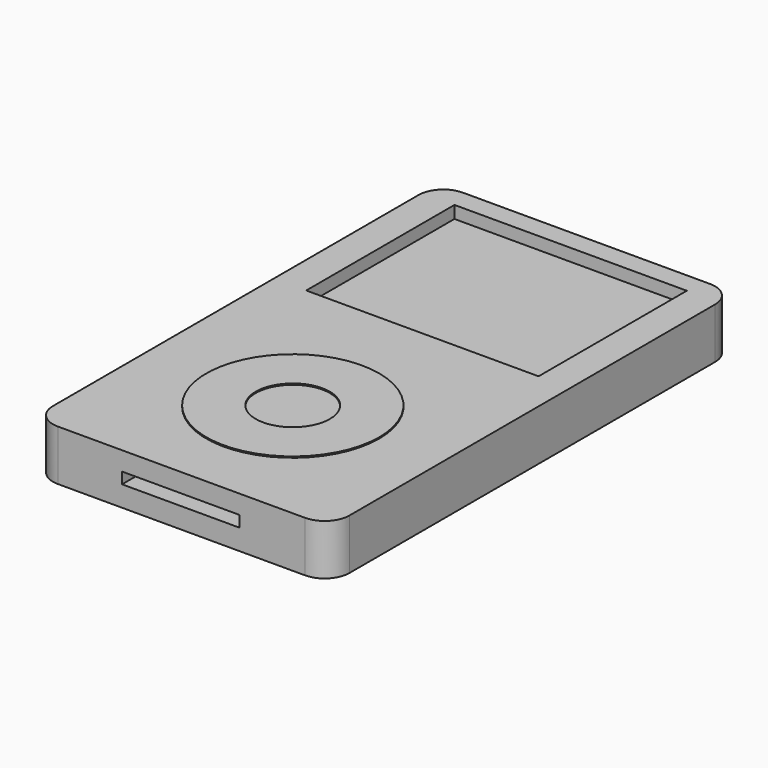
from build123d import *

# Parameters (mm, degrees)
F0_W      = 60.96
F0_H      = 104.14
F1_DEPTH  = 10.414
F2_R      = 5.08
F3_R      = 5.08
F4_R      = 5.08
F5_R      = 5.08
F6_W      = 47.776191
F6_H      = 38.1
F8_DEPTH  = 2.54
F7_R      = 17.78
F7_R_2    = 7.62
F9_DEPTH  = 0.254
F10_R     = 2.403012
F11_DEPTH = 6.35
F12_W     = 24.128942
F12_H     = 2.311272
F13_DEPTH = 5.08


with BuildPart() as f1:
    # F0 (on Top) → F1 (new body)
    with BuildSketch(Plane.XY):
        with Locations((-8.696019, 3.824193)):
            Rectangle(F0_W, F0_H)
    extrude(amount=F1_DEPTH)

    # F2
    f2_edges = [f1.edges().sort_by_distance(p)[0] for p in [
        (21.783981, 55.894193, 5.207),
    ]]
    fillet(f2_edges, radius=F2_R)

    # F3
    f3_edges = [f1.edges().sort_by_distance(p)[0] for p in [
        (-39.176019, 55.894193, 5.207),
    ]]
    fillet(f3_edges, radius=F3_R)

    # F4
    f4_edges = [f1.edges().sort_by_distance(p)[0] for p in [
        (21.783981, -48.245807, 5.207),
    ]]
    fillet(f4_edges, radius=F4_R)

    # F5
    f5_edges = [f1.edges().sort_by_distance(p)[0] for p in [
        (-39.176019, -48.245807, 5.207),
    ]]
    fillet(f5_edges, radius=F5_R)

    # F6 (on face) → F8 (cut)
    with BuildSketch(Plane.XY.offset(10.414)):
        with Locations((-8.627544, 32.658872)):
            Rectangle(F6_W, F6_H)
    extrude(amount=-F8_DEPTH, mode=Mode.SUBTRACT)

    # F7 (on face) → F9 (join)
    with BuildSketch(Plane.XY.offset(10.414)):
        with Locations((-8.950802, -19.304793)):
            Circle(F7_R)
        with Locations((-8.950802, -19.304793)):
            Circle(F7_R_2, mode=Mode.SUBTRACT)
    extrude(amount=F9_DEPTH)

    # F10 (on face) → F11 (cut)
    with BuildSketch(Plane(origin=(0, 55.894193, 0), x_dir=(-1, 0, 0), z_dir=(0, 1, 0))):
        with Locations((-10.893411, 5.443895)):
            Circle(F10_R)
    extrude(amount=-F11_DEPTH, mode=Mode.SUBTRACT)

    # F12 (on face) → F13 (cut)
    with BuildSketch(Plane.XZ.offset(48.245807)):
        with Locations((-8.840048, 5.399611)):
            Rectangle(F12_W, F12_H)
    extrude(amount=-F13_DEPTH, mode=Mode.SUBTRACT)


solid = f1.part
